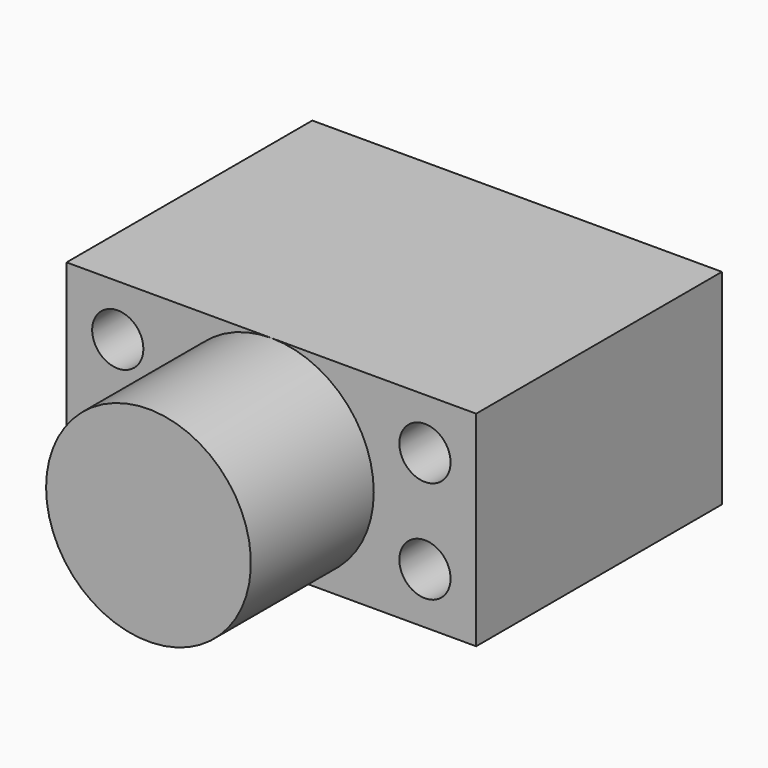
from build123d import *

# Parameters (mm, degrees)
F0_W     = 101.6
F0_H     = 50.8
F1_DEPTH = 76.2
F2_R     = 6.35
F3_DEPTH = 76.201
F4_W     = 25.4
F4_H     = 38.1


with BuildPart() as f1:
    # F0 (on Front) → F1 (new body)
    with BuildSketch(Plane.XZ):
        Rectangle(F0_W, F0_H)
    extrude(amount=F1_DEPTH)

    # F2 (on face) → F3 (cut, through all)
    with BuildSketch(Plane.XZ.offset(76.2)):
        with Locations((-38.1, 12.7)):
            Circle(F2_R)
        with Locations((-38.1, -12.7)):
            Circle(F2_R)
        with Locations((38.1, 12.7)):
            Circle(F2_R)
        with Locations((38.1, -12.7)):
            Circle(F2_R)
    extrude(amount=-F3_DEPTH, mode=Mode.SUBTRACT)

    # F4 (on Top) → F5 (revolve)
    with BuildSketch(Plane.XY):
        with Locations((-12.7, -95.25)):
            Rectangle(F4_W, F4_H)
    revolve(axis=Axis((0, -95.25, 0), (0, -1, 0)))


solid = f1.part
